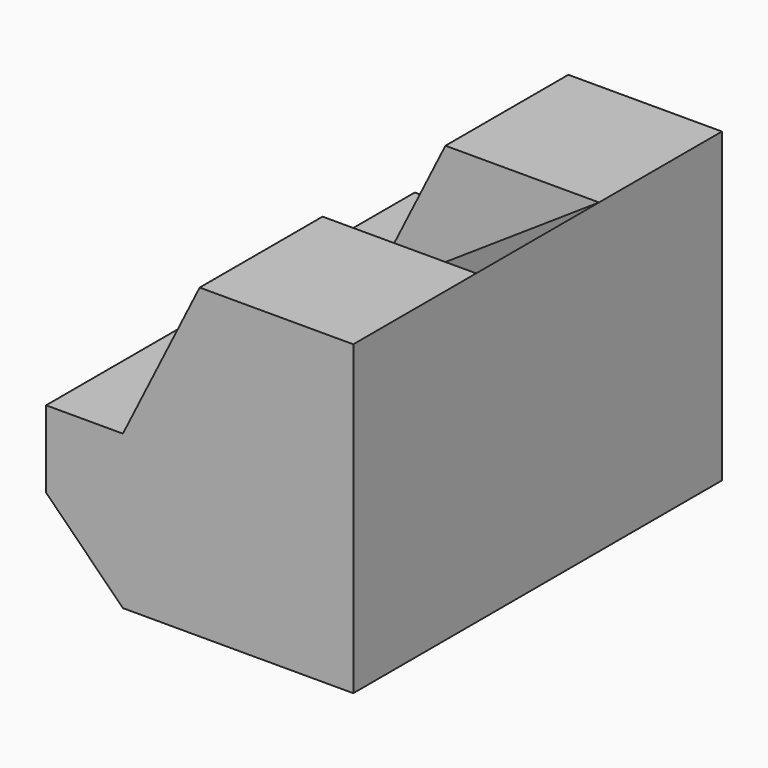
from build123d import *

# Parameters (mm, degrees)
F1_DEPTH = 15
F2_DEPTH = 5


with BuildPart() as f1:
    # F0 (on Front) → F1 (new body, symmetric)
    with BuildSketch(Plane.XZ):
        Polygon((-15, 0), (0, 0), (0, 20), (-15, 10), (-20, 10), (-20, 5), align=None)
        Polygon((-15, 10), (0, 20), (-10, 20), align=None)
    extrude(amount=F1_DEPTH, both=True)

    # F0 (on Front) → F2 (cut, symmetric)
    with BuildSketch(Plane.XZ):
        Polygon((-15, 10), (0, 20), (-10, 20), align=None)
    extrude(amount=F2_DEPTH, both=True, mode=Mode.SUBTRACT)


solid = f1.part
